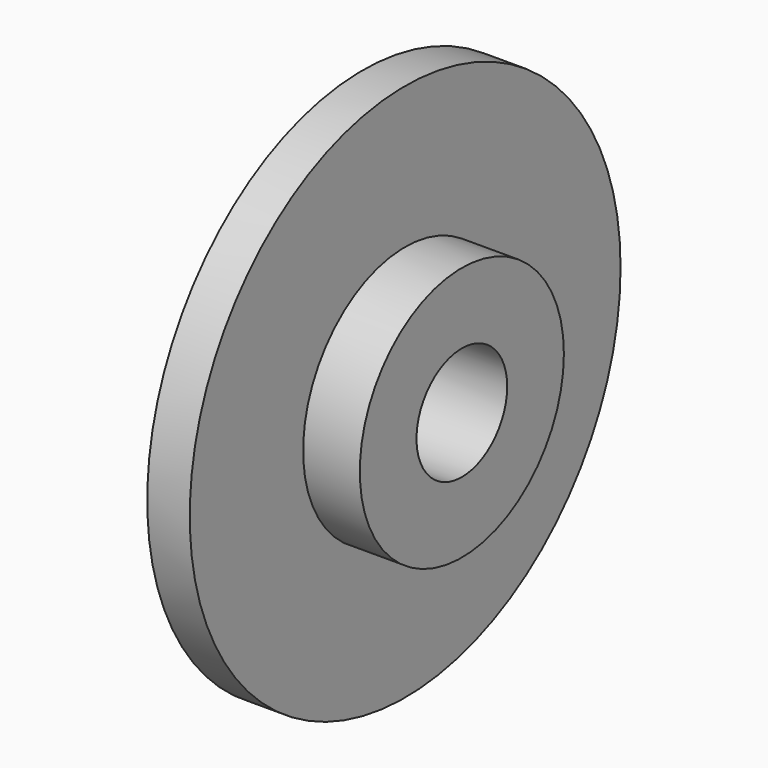
from build123d import *

# Parameters (mm, degrees)
F0_W = 4
F0_H = 5


with BuildPart() as f1:
    # F0 (on Top) → F1 (revolve)
    with BuildSketch(Plane.XY):
        Polygon((3, 19), (0, 19), (0, 4), (3, 4), (3, 9), align=None)
        with Locations((5, 6.5)):
            Rectangle(F0_W, F0_H)
    revolve(axis=Axis((9.390386, 0, 0), (1, 0, 0)))


solid = f1.part
